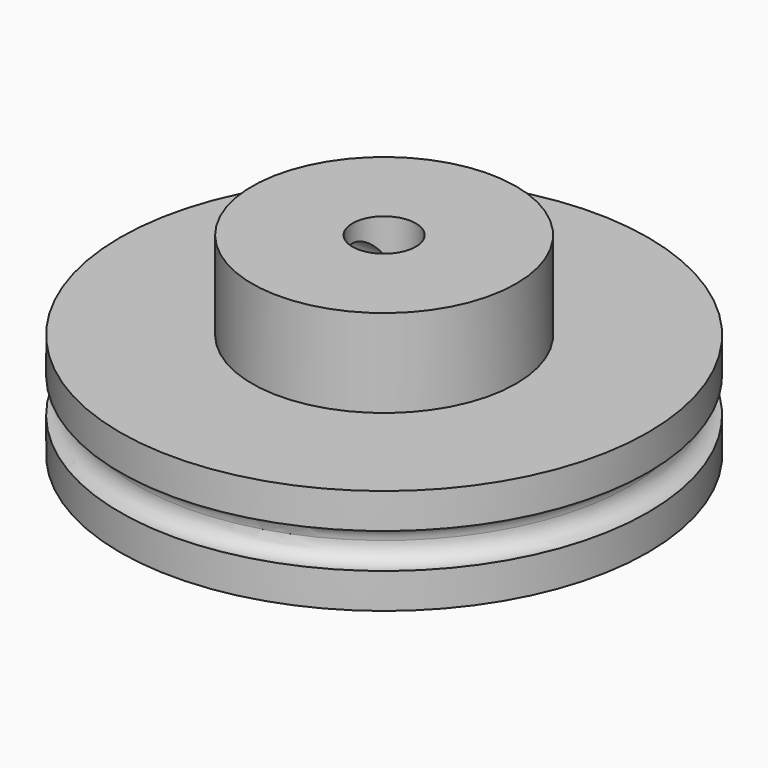
from build123d import *

# Parameters (mm, degrees)
F0_R     = 19.05
F1_DEPTH = 7.62
F2_R     = 9.525
F3_DEPTH = 6.35
F4_R     = 1.905
F5_DEPTH = 25.4
F6_R     = 2.286
F7_DEPTH = 101.6
F8_R     = 1.27


with BuildPart() as f1:
    # F0 (on Top) → F1 (new body)
    with BuildSketch(Plane.XY):
        Circle(F0_R)
    extrude(amount=F1_DEPTH)

    # F2 (on face) → F3 (join)
    with BuildSketch(Plane.XY.offset(7.62)):
        Circle(F2_R)
    extrude(amount=F3_DEPTH)

    # F4 (on Right) → F5 (cut)
    with BuildSketch(Plane.YZ):
        with Locations((0, 10.795)):
            Circle(F4_R)
    extrude(amount=-F5_DEPTH, mode=Mode.SUBTRACT)

    # F6 (on face) → F7 (cut)
    with BuildSketch(Plane(origin=(0, 0, 0), x_dir=(1, 0, 0), z_dir=(0, 0, -1))):
        Circle(F6_R)
    extrude(amount=-F7_DEPTH, mode=Mode.SUBTRACT)

    # F8 (on Right) → F9 (revolve, cut)
    with BuildSketch(Plane.YZ):
        with Locations((-19.05, 3.81)):
            Circle(F8_R)
    revolve(axis=Axis((0, 0, 13.97), (0, 0, 1)), mode=Mode.SUBTRACT)


solid = f1.part
